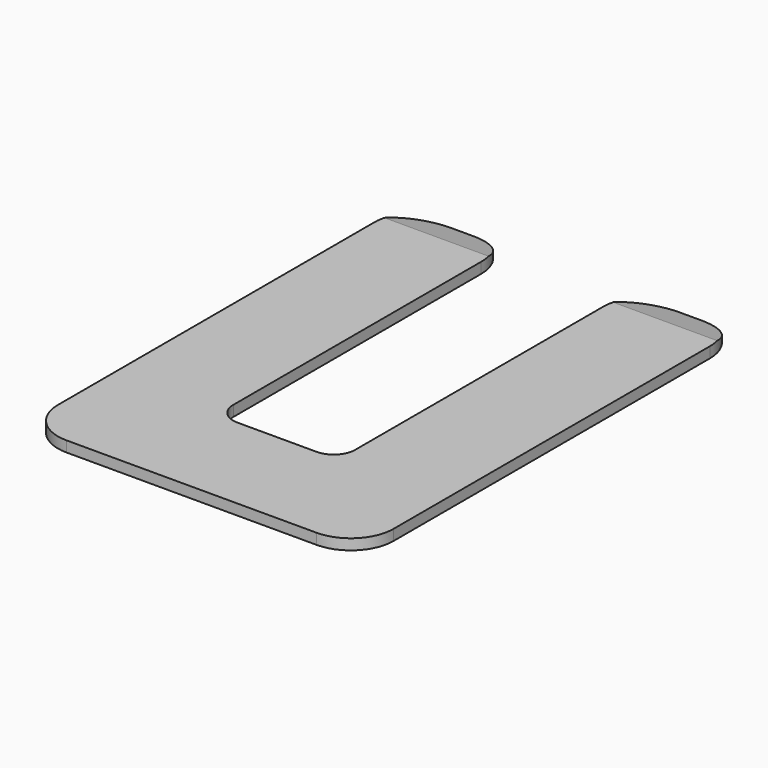
from build123d import *

# Parameters (mm, degrees)
EXTRUDE001_DEPTH = 20
EXTRUDE_DEPTH    = 0.5


with BuildPart() as extrude001:
    # Sketch001 → Extrude001 (new body, symmetric)
    with BuildSketch(Plane.YZ):
        Polygon((8.75, 0.1), (6.329819, 0.748485), (8.75, 0.748485), align=None)
    extrude(amount=EXTRUDE001_DEPTH, both=True)


with BuildPart() as cut:
    # Sketch → Extrude (new body)
    with BuildSketch(Plane.XY):
        with BuildLine():
            Line((-2.85, 6.75), (-2.85, -7.75))
            ThreePointArc((-2.85, -7.75), (-2.557107, -8.457107), (-1.85, -8.75))
            Line((-1.85, -8.75), (1.85, -8.75))
            ThreePointArc((1.85, -8.75), (2.557107, -8.457107), (2.85, -7.75))
            Line((2.85, -7.75), (2.85, 6.75))
            ThreePointArc((4.85, 8.75), (3.435786, 8.164214), (2.85, 6.75))
            Line((4.85, 8.75), (5.85, 8.75))
            ThreePointArc((7.85, 6.75), (7.264214, 8.164214), (5.85, 8.75))
            Line((7.85, 6.75), (7.85, -11.75))
            ThreePointArc((5.85, -13.75), (7.264214, -13.164214), (7.85, -11.75))
            Line((5.85, -13.75), (-5.85, -13.75))
            ThreePointArc((-7.85, -11.75), (-7.264214, -13.164214), (-5.85, -13.75))
            Line((-7.85, -11.75), (-7.85, 6.75))
            ThreePointArc((-5.85, 8.75), (-7.264214, 8.164214), (-7.85, 6.75))
            Line((-5.85, 8.75), (-4.85, 8.75))
            ThreePointArc((-2.85, 6.75), (-3.435786, 8.164214), (-4.85, 8.75))
        make_face()
    extrude(amount=EXTRUDE_DEPTH)

    # Cut: cut Extrude001
    add(extrude001.part, mode=Mode.SUBTRACT)


solid = cut.part
